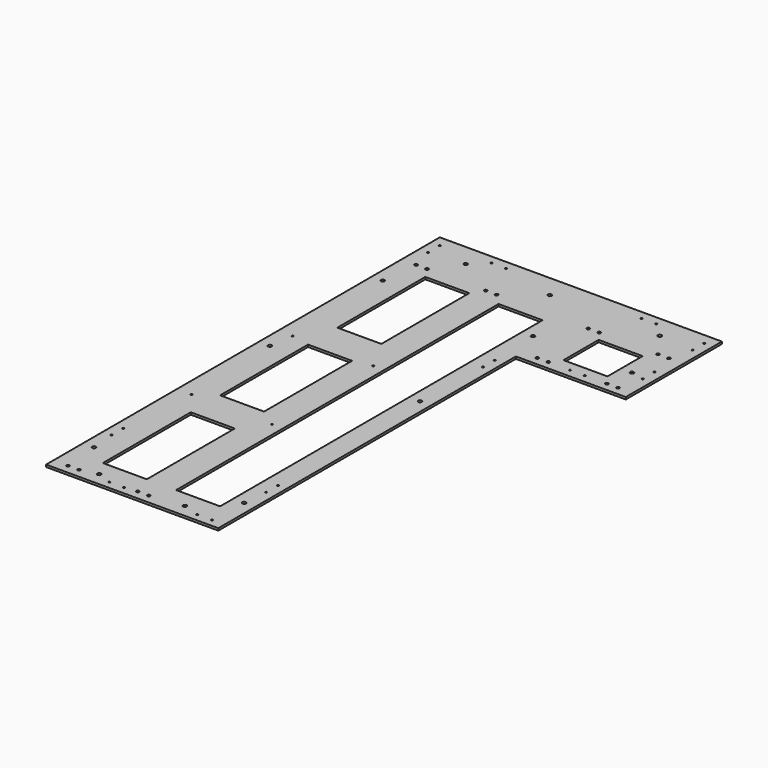
from build123d import *

# Parameters (mm, degrees)
F0_W     = 150
F0_H     = 2
F0_R     = 2.5
F0_R_2   = 2.05
F0_R_3   = 1.2
F0_W_2   = 385
F0_H_2   = 56
F0_W_3   = 235
F0_H_3   = 3
F1_DEPTH = 3
F2_W     = 60
F2_H     = 150
F2_H_2   = 60
F2_H_3   = 550
F3_DEPTH = 25
F4_R     = 1.2
F5_DEPTH = 25


with BuildPart() as f1:
    # F0 (on Top) → F1 (new body)
    with BuildSketch(Plane.XY):
        with Locations((117.5, -54)):
            Rectangle(F0_W, F0_H)
        Polygon((42.5, -53), (192.5, -53), (192.5, 53), (-192.5, 53), (-192.5, -53), align=None)
        with Locations((-177.5, -7)):
            Circle(F0_R, mode=Mode.SUBTRACT)
        with Locations((-172.5, 43.5)):
            Circle(F0_R_2, mode=Mode.SUBTRACT)
        with Locations((-157.5, 43.5)):
            Circle(F0_R_2, mode=Mode.SUBTRACT)
        with Locations((-77.5, 43.5)):
            Circle(F0_R_2, mode=Mode.SUBTRACT)
        with Locations((-62.5, 43.5)):
            Circle(F0_R_2, mode=Mode.SUBTRACT)
        with Locations((27.5, -7)):
            Circle(F0_R, mode=Mode.SUBTRACT)
        with Locations((62.5, -43.417)):
            Circle(F0_R_2, mode=Mode.SUBTRACT)
        with Locations((77.5, -43.417)):
            Circle(F0_R_2, mode=Mode.SUBTRACT)
        with Locations((62.5, 43.5)):
            Circle(F0_R_2, mode=Mode.SUBTRACT)
        with Locations((77.5, 43.5)):
            Circle(F0_R_2, mode=Mode.SUBTRACT)
        with Locations((157.5, -43.417)):
            Circle(F0_R_2, mode=Mode.SUBTRACT)
        with Locations((172.5, -43.417)):
            Circle(F0_R_2, mode=Mode.SUBTRACT)
        with Locations((162.5, -7)):
            Circle(F0_R, mode=Mode.SUBTRACT)
        with Locations((157.5, 43.5)):
            Circle(F0_R_2, mode=Mode.SUBTRACT)
        with Locations((172.5, 43.5)):
            Circle(F0_R_2, mode=Mode.SUBTRACT)
        Polygon((42.5, -55), (42.5, -53), (-192.5, -53), (-192.5, -559.6), (42.5, -559.6), align=None)
        with Locations((-172.5, -550.1)):
            Circle(F0_R_2, mode=Mode.SUBTRACT)
        with Locations((-157.5, -550.1)):
            Circle(F0_R_2, mode=Mode.SUBTRACT)
        with Locations((-177.5, -499.6)):
            Circle(F0_R, mode=Mode.SUBTRACT)
        with Locations((-134.5, -544.6)):
            Circle(F0_R, mode=Mode.SUBTRACT)
        with Locations((-77.5, -550.1)):
            Circle(F0_R_2, mode=Mode.SUBTRACT)
        with Locations((-62.5, -550.1)):
            Circle(F0_R_2, mode=Mode.SUBTRACT)
        with Locations((-17.5, -544.6)):
            Circle(F0_R, mode=Mode.SUBTRACT)
        with Locations((-172.5, -339.6)):
            Circle(F0_R_3, mode=Mode.SUBTRACT)
        with Locations((-62.5, -339.6)):
            Circle(F0_R_3, mode=Mode.SUBTRACT)
        with Locations((27.5, -499.6)):
            Circle(F0_R, mode=Mode.SUBTRACT)
        with Locations((-177.5, -199.6)):
            Circle(F0_R, mode=Mode.SUBTRACT)
        with Locations((-172.5, -167)):
            Circle(F0_R_3, mode=Mode.SUBTRACT)
        with Locations((-62.5, -167)):
            Circle(F0_R_3, mode=Mode.SUBTRACT)
        with Locations((27.5, -199.6)):
            Circle(F0_R, mode=Mode.SUBTRACT)
        with Locations((0, 81)):
            Rectangle(F0_W_2, F0_H_2)
        with Locations((-132.5, 78)):
            Circle(F0_R, mode=Mode.SUBTRACT)
        with Locations((-17.5, 78)):
            Circle(F0_R, mode=Mode.SUBTRACT)
        with Locations((132.5, 78)):
            Circle(F0_R, mode=Mode.SUBTRACT)
        with Locations((-75, -561.1)):
            Rectangle(F0_W_3, F0_H_3)
    extrude(amount=F1_DEPTH)

    # F2 (on face) → F3 (cut)
    with BuildSketch(Plane.XY.offset(3)):
        with Locations((-117.5, -47)):
            Rectangle(F2_W, F2_H)
        with Locations((-117.5, -247)):
            Rectangle(F2_W, F2_H)
        with Locations((117.5, 0)):
            Rectangle(F2_W, F2_H_2)
        with Locations((-117.5, -447)):
            Rectangle(F2_W, F2_H)
        with Locations((-17.5, -247)):
            Rectangle(F2_W, F2_H_3)
    extrude(amount=-F3_DEPTH, mode=Mode.SUBTRACT)

    # F4 (on face) → F5 (cut)
    with BuildSketch(Plane.XY.offset(3)):
        with Locations((-180.5, 94)):
            Circle(F4_R)
        with Locations((-180.5, 74)):
            Circle(F4_R)
        with Locations((-180.5, -446)):
            Circle(F4_R)
        with Locations((-180.5, -466)):
            Circle(F4_R)
        with Locations((30.5, -446)):
            Circle(F4_R)
        with Locations((30.5, -466)):
            Circle(F4_R)
        with Locations((30.5, -76)):
            Circle(F4_R)
        with Locations((30.5, -96)):
            Circle(F4_R)
        with Locations((180.5, 94)):
            Circle(F4_R)
        with Locations((180.5, 74)):
            Circle(F4_R)
        with Locations((180.5, 9)):
            Circle(F4_R)
        with Locations((180.5, -11)):
            Circle(F4_R)
        with Locations((-114.5, -552.1)):
            Circle(F4_R)
        with Locations((-94.5, -552.1)):
            Circle(F4_R)
        with Locations((5.5, -552.1)):
            Circle(F4_R)
        with Locations((25.5, -552.1)):
            Circle(F4_R)
        with Locations((-112.5, 97)):
            Circle(F4_R)
        with Locations((-92.5, 97)):
            Circle(F4_R)
        with Locations((92.5, 97)):
            Circle(F4_R)
        with Locations((112.5, 97)):
            Circle(F4_R)
        with Locations((107.5, -43.8)):
            Circle(F4_R)
        with Locations((127.5, -43.8)):
            Circle(F4_R)
    extrude(amount=-F5_DEPTH, mode=Mode.SUBTRACT)


solid = f1.part
